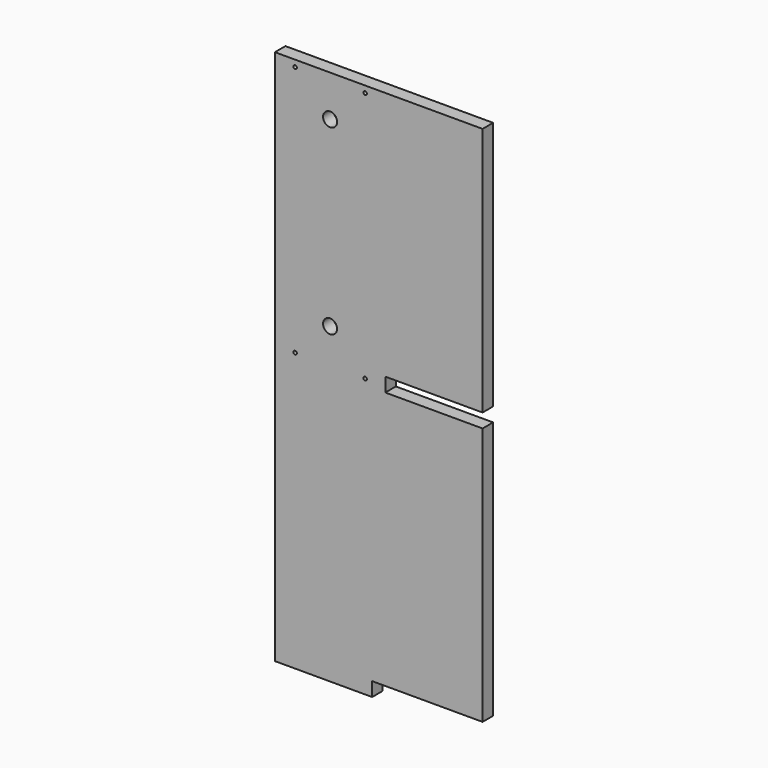
from build123d import *

# Parameters (mm, degrees)
F1_DEPTH = 11.938
F2_R     = 6.35
F2_R_2   = 1.5875
F3_DEPTH = 11.939


with BuildPart() as f1:
    # F0 (on Front) → F1 (new body)
    with BuildSketch(Plane.XZ):
        Polygon((-36.348071, 252.832707), (-136.424071, 252.832707), (-136.424071, -233.005793), (-48.286071, -233.005793), (-48.286071, -220.305793), (51.789929, -220.305793), (51.789929, 13.818707), (-36.348071, 13.818707), (-36.348071, 26.518707), (51.789929, 26.518707), (51.789929, 252.832707), align=None)
    extrude(amount=F1_DEPTH)

    # F2 (on face) → F3 (cut, through all)
    with BuildSketch(Plane.XZ.offset(11.938)):
        with Locations((-86.386071, 215.494707)):
            Circle(F2_R)
        with Locations((-86.386071, 50.394707)):
            Circle(F2_R)
        with Locations((-118.136071, 246.863707)):
            Circle(F2_R_2)
        with Locations((-54.636071, 246.863707)):
            Circle(F2_R_2)
        with Locations((-118.136071, 19.025707)):
            Circle(F2_R_2)
        with Locations((-54.636071, 19.025707)):
            Circle(F2_R_2)
    extrude(amount=-F3_DEPTH, mode=Mode.SUBTRACT)


solid = f1.part
